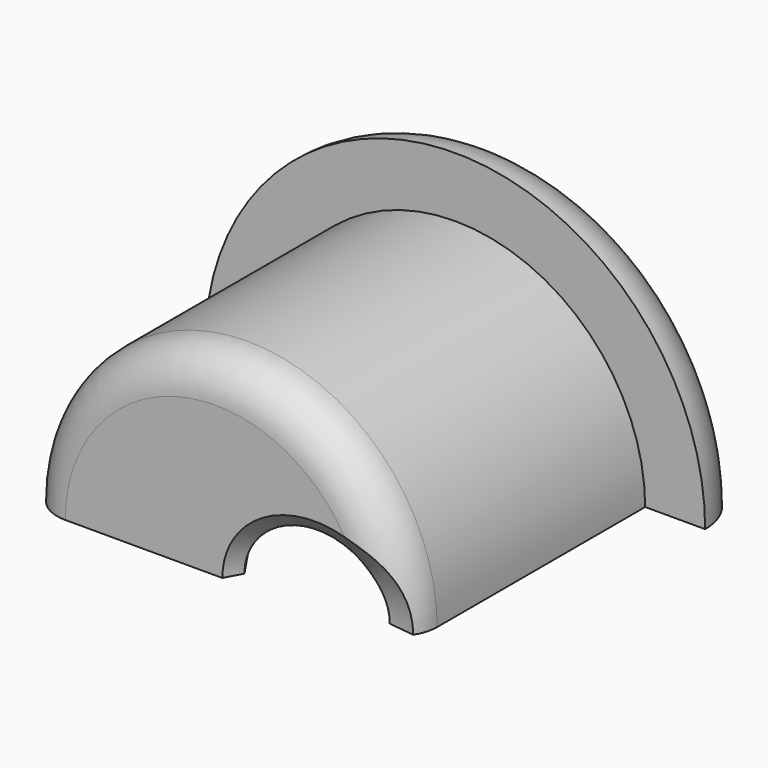
from build123d import *

# Parameters (mm, degrees)
SKETCH001_R             = 3
PAD_DEPTH               = 29
BODY001_PLACEMENT_ANGLE = 34
REVOLUTION_ANGLE        = -180
CHAMFER_SIZE            = 1


with BuildPart() as body001:
    # Sketch001 → Pad (new body)
    with BuildSketch(Plane.XZ):
        Circle(SKETCH001_R)
    extrude(amount=-PAD_DEPTH)


with BuildPart() as body001_1:
    # Body001 placement: moved
    add(body001.part.moved(Location((7, -3, 0))).rotate(Axis((7, -3, 0), (0, 0, 1)), BODY001_PLACEMENT_ANGLE))


with BuildPart() as body:
    # Sketch → Revolution (revolve)
    with BuildSketch(Plane.XY):
        with BuildLine():
            Line((9.5, 15), (12.5, 15))
            ThreePointArc((12.5, 15), (11.62132, 17.12132), (9.5, 18))
            Line((0, 18), (9.5, 18))
            Line((0, 0), (0, 18))
            Line((0, 0), (7.5, 0))
            ThreePointArc((7.5, 0), (8.914214, 0.585786), (9.5, 2))
            Line((9.5, 15), (9.5, 2))
        make_face()
    revolve(axis=Axis((0, 0, 0), (0, 1, 0)), revolution_arc=REVOLUTION_ANGLE)

    # Boolean: cut Body001
    add(body001_1.part, mode=Mode.SUBTRACT)

    # Chamfer
    chamfer_edges = [body.edges().sort_by_distance(p)[0] for p in [
        (-5.63609, 18, 2.719202),
        (3.511353, 0, 2.743109),
    ]]
    chamfer(chamfer_edges, length=CHAMFER_SIZE)


solid = body.part
